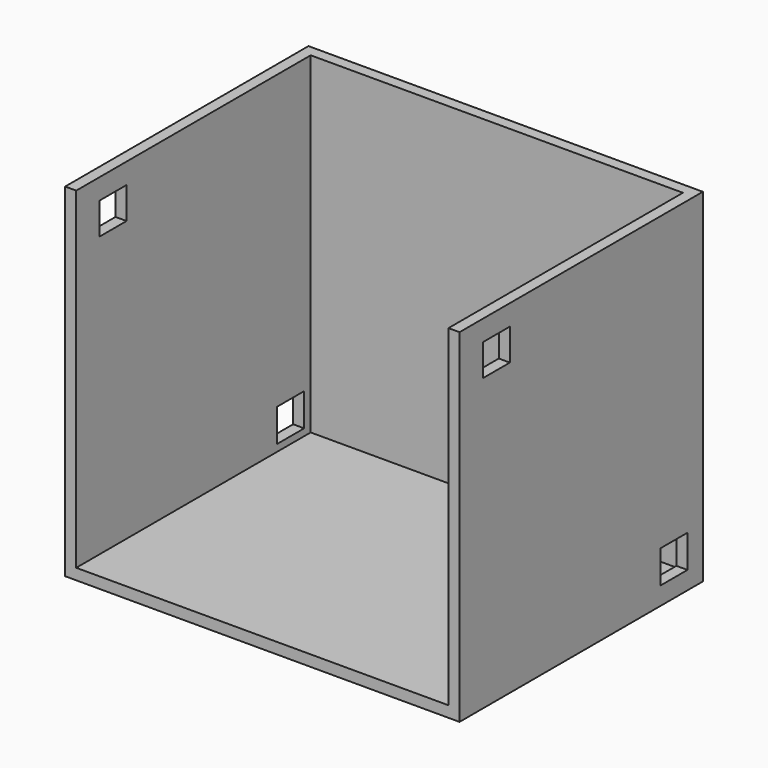
from build123d import *

# Parameters (mm, degrees)
F0_W     = 90.5727781355
F0_H     = 92.5153568387
F1_DEPTH = 69.85
F2_T     = -2.54
F3_W     = 90.5727781355
F3_H     = 69.85
F4_DEPTH = 13.716
F5_W     = 7.770318538
F5_H     = 7.2846729308
F5_H_2   = 7.5274929404
F6_DEPTH = 90.5737781355


with BuildPart() as f1:
    # F0 (on Front) → F1 (new body)
    with BuildSketch(Plane.XZ):
        with Locations((1.9425805658, -7.1646422148)):
            Rectangle(F0_W, F0_H)
    extrude(amount=-F1_DEPTH)

    # F2
    f2_openings = [f1.faces().sort_by_distance(p)[0] for p in [
        (1.942581, 0, -7.164642),
    ]]
    offset(amount=F2_T, openings=f2_openings)

    # F3 (on face) → F4 (cut)
    with BuildSketch(Plane.XY.offset(39.0930362046)):
        with Locations((1.9425805658, 34.925)):
            Rectangle(F3_W, F3_H)
    extrude(amount=-F4_DEPTH, mode=Mode.SUBTRACT)

    # F5 (on face) → F6 (cut, through all)
    with BuildSketch(Plane(origin=(-43.343808502, 0, 0), x_dir=(0, -1, 0), z_dir=(-1, 0, 0))):
        with Locations((-10.5627775192, 16.9961908832)):
            Rectangle(F5_W, F5_H)
        with Locations((-61.5554954857, -45.5305911601)):
            Rectangle(F5_W, F5_H_2)
    extrude(amount=-F6_DEPTH, mode=Mode.SUBTRACT)


solid = f1.part
